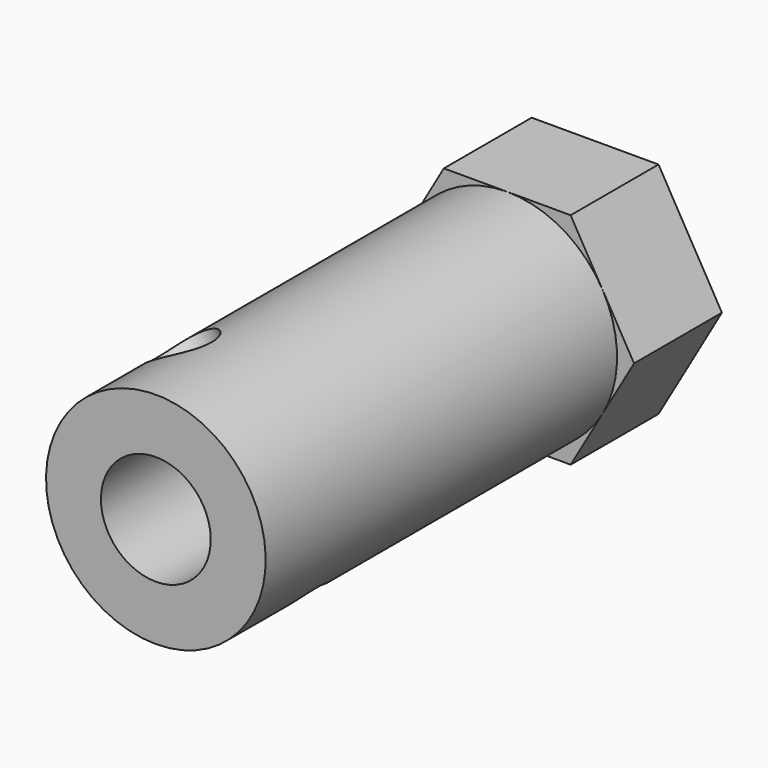
from build123d import *

# Parameters (mm, degrees)
PAD102_DEPTH            = 6
SKETCH157_R             = 6
PAD103_DEPTH            = 24
SKETCH158_R             = 3
POCKET040_DEPTH         = 24.5
SKETCH159_R             = 1.75
POCKET041_DEPTH         = 6
SKETCH160_R             = 1.75
POCKET042_DEPTH         = 7
BODY088_ROLL_ANGLE      = 90.00003
BODY088_PITCH_ANGLE     = -30.000033
BODY088_PLACEMENT_ANGLE = -8e-06


with BuildPart() as part:
    # Sketch156 → Pad102 (new body)
    with BuildSketch(Plane.XY):
        Polygon((6, 3.464102), (0, 6.928203), (-6, 3.464102), (-6, -3.464102), (0, -6.928203), (6, -3.464102), align=None)
    extrude(amount=PAD102_DEPTH)

    # Sketch157 (on Face8 of Pad102) → Pad103 (join)
    with BuildSketch(Plane.XY.offset(6)):
        Circle(SKETCH157_R)
    extrude(amount=PAD103_DEPTH)

    # Sketch158 (on Face15 of Pad103) → Pocket040 (cut)
    with BuildSketch(Plane.XY.offset(30)):
        Circle(SKETCH158_R)
    extrude(amount=-POCKET040_DEPTH, mode=Mode.SUBTRACT)

    # Sketch159 (on Face4 of Pocket040) → Pocket041 (cut)
    with BuildSketch(Plane(origin=(0, 0, 0), x_dir=(1, 0, 0), z_dir=(0, 0, -1))):
        Circle(SKETCH159_R)
    extrude(amount=-POCKET041_DEPTH, mode=Mode.SUBTRACT)

    # Sketch160 → Pocket042 (cut, symmetric)
    with BuildSketch(Plane.XZ):
        with Locations((0, 24.5)):
            Circle(SKETCH160_R)
    extrude(amount=POCKET042_DEPTH, both=True, mode=Mode.SUBTRACT)


with BuildPart() as part_1:
    # Body088 roll: moved
    add(part.part.rotate(Axis((0, 0, 0), (1, 0, 0)), BODY088_ROLL_ANGLE))


with BuildPart() as part_2:
    # Body088 pitch: moved
    add(part_1.part.rotate(Axis((0, 0, 0), (0, 1, 0)), BODY088_PITCH_ANGLE))


with BuildPart() as part_3:
    # Body088 placement: moved
    add(part_2.part.moved(Location((0, 10.3, 0))).rotate(Axis((0, 10.3, 0), (0, 0, 1)), BODY088_PLACEMENT_ANGLE))


solid = part_3.part
